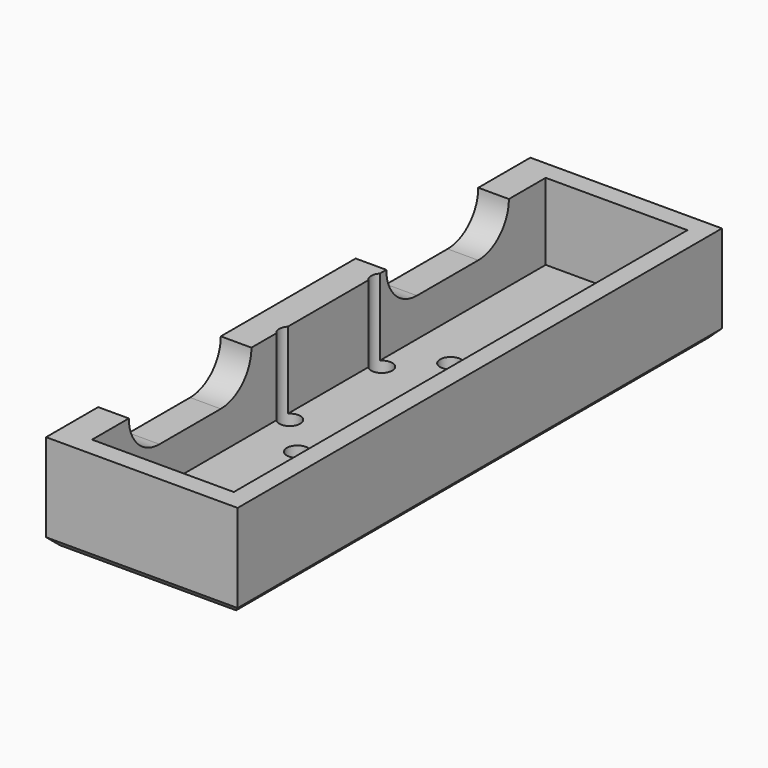
from build123d import *

# Parameters (mm, degrees)
SKETCH021_W     = 50
SKETCH021_H     = 158
PAD008_DEPTH    = 25
SKETCH022_W     = 37
SKETCH022_H     = 148
POCKET005_DEPTH = 20
POCKET006_DEPTH = 16
SKETCH024_R     = 2.75
HOLE008_DEPTH   = 25
HOLE008_TIPS_R  = 2.75
CHAMFER002_SIZE = 2


with BuildPart() as part:
    # Sketch021 → Pad008 (new body)
    with BuildSketch(Plane.XY):
        with Locations((25, 82)):
            Rectangle(SKETCH021_W, SKETCH021_H)
    extrude(amount=-PAD008_DEPTH)

    # Sketch022 → Pocket005 (cut)
    with BuildSketch(Plane.XY):
        with Locations((26.5, 82)):
            Rectangle(SKETCH022_W, SKETCH022_H)
    extrude(amount=-POCKET005_DEPTH, mode=Mode.SUBTRACT)

    # Sketch023 → Pocket006 (cut)
    with BuildSketch(Plane.YZ):
        with BuildLine():
            ThreePointArc((30.000006, 10), (20.000006, 0), (30.000006, -10))
            Line((30.000006, -10), (50, -10))
            ThreePointArc((50, -10), (60, 0), (50, 10))
            Line((30.000006, 10), (50, 10))
        make_face()
        with BuildLine():
            ThreePointArc((114.000009, 10), (104.000009, 0), (114.000009, -10))
            Line((114.000009, -10), (134, -10))
            ThreePointArc((134, -10), (144, 0), (134, 10))
            Line((114.000009, 10), (134, 10))
        make_face()
    extrude(amount=POCKET006_DEPTH, mode=Mode.SUBTRACT)

    # Sketch024 → Hole008 (cut)
    with BuildSketch(Plane.XY.offset(-25)):
        with Locations((10, 100)):
            Circle(SKETCH024_R)
        with Locations((20, 110)):
            Circle(SKETCH024_R)
        with Locations((10, 70)):
            Circle(SKETCH024_R)
        with Locations((20, 60)):
            Circle(SKETCH024_R)
    extrude(amount=HOLE008_DEPTH, mode=Mode.SUBTRACT)

    # Hole008 tips → Hole008 tip 1 section 0
    with BuildSketch(Plane.XY, mode=Mode.PRIVATE) as hole008_tip_1_s0:
        with Locations((10, 100)):
            Circle(HOLE008_TIPS_R)
    loft([hole008_tip_1_s0.sketch, Vertex(10, 100, 1.652367)], mode=Mode.SUBTRACT)

    # Hole008 tips → Hole008 tip 2 section 0
    with BuildSketch(Plane.XY, mode=Mode.PRIVATE) as hole008_tip_2_s0:
        with Locations((20, 110)):
            Circle(HOLE008_TIPS_R)
    loft([hole008_tip_2_s0.sketch, Vertex(20, 110, 1.652367)], mode=Mode.SUBTRACT)

    # Hole008 tips → Hole008 tip 3 section 0
    with BuildSketch(Plane.XY, mode=Mode.PRIVATE) as hole008_tip_3_s0:
        with Locations((10, 70)):
            Circle(HOLE008_TIPS_R)
    loft([hole008_tip_3_s0.sketch, Vertex(10, 70, 1.652367)], mode=Mode.SUBTRACT)

    # Hole008 tips → Hole008 tip 4 section 0
    with BuildSketch(Plane.XY, mode=Mode.PRIVATE) as hole008_tip_4_s0:
        with Locations((20, 60)):
            Circle(HOLE008_TIPS_R)
    loft([hole008_tip_4_s0.sketch, Vertex(20, 60, 1.652367)], mode=Mode.SUBTRACT)

    # Chamfer002
    chamfer002_edges = [part.edges().sort_by_distance(p)[0] for p in [
        (25, 3, -25),
        (0, 82, -25),
        (25, 161, -25),
        (50, 82, -25),
    ]]
    chamfer(chamfer002_edges, length=CHAMFER002_SIZE)


with BuildPart() as part_1:
    # Body006 placement: moved
    add(part.part.moved(Location((-80, -12, -126))))


solid = part_1.part
